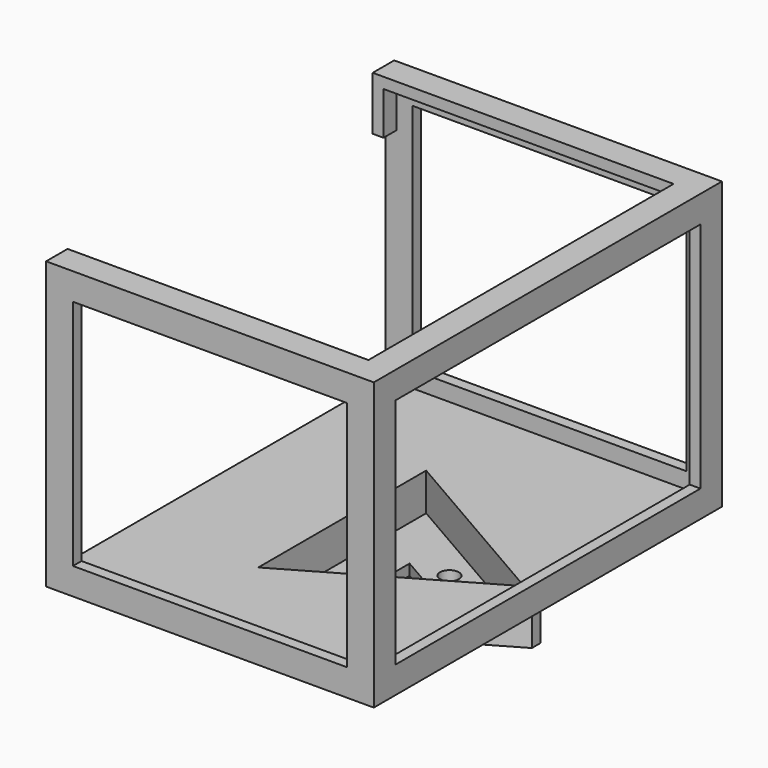
from build123d import *

# Parameters (mm, degrees)
SKETCH_R        = 1.75
PAD_DEPTH       = 2
PAD001_DEPTH    = 5
SKETCH002_W     = 61
SKETCH002_H     = 81
PAD002_DEPTH    = 2
PAD003_DEPTH    = 49.3
PAD004_DEPTH    = 2
SKETCH005_W     = 5
SKETCH005_H     = 10
PAD005_DEPTH    = 2
SKETCH006_W     = 51
SKETCH006_H     = 43.3
POCKET_DEPTH    = 81
SKETCH007_W     = 71
SKETCH007_H     = 43.3
POCKET001_DEPTH = 2


with BuildPart() as part:
    # Sketch → Pad (new body)
    with BuildSketch(Plane.XY):
        Polygon((-13.279056, 21), (-13.279056, -21), (-11.547005, -22), (24.826062, -1), (24.826062, 1), (-11.547005, 22), align=None)
        with Locations((-7.279056, 0)):
            Circle(SKETCH_R, mode=Mode.SUBTRACT)
        with Locations((3.639528, 6.303848)):
            Circle(SKETCH_R, mode=Mode.SUBTRACT)
        with Locations((3.639528, -6.303848)):
            Circle(SKETCH_R, mode=Mode.SUBTRACT)
        Polygon((6.558112, 0), (-3.279056, 5.679492), (-3.279056, -5.679492), align=None, mode=Mode.SUBTRACT)
    extrude(amount=PAD_DEPTH)

    # Sketch001 (on Face14 of Pad) → Pad001 (join)
    with BuildSketch(Plane.XY.offset(2)):
        Polygon((-13.279056, 21), (-11.547005, 22), (24.826062, 1), (24.826062, -1), (-11.547005, -22), (-13.279056, -21), align=None)
        Polygon((22.558112, 0), (-11.279056, 19.535898), (-11.279056, -19.535898), align=None, mode=Mode.SUBTRACT)
    extrude(amount=PAD001_DEPTH)

    # Sketch002 (on Face17 of Pad001) → Pad002 (join)
    with BuildSketch(Plane.XY.offset(7)):
        with Locations((-3.5, 0)):
            Rectangle(SKETCH002_W, SKETCH002_H)
        Polygon((-11.279056, 19.535898), (22.558112, 0), (-11.279056, -19.535898), align=None, mode=Mode.SUBTRACT)
    extrude(amount=PAD002_DEPTH)

    # Sketch003 (on Face29 of Pad002) → Pad003 (join)
    with BuildSketch(Plane.XY.offset(9)):
        Polygon((-34, 40.5), (27, 40.5), (27, -40.5), (-34, -40.5), (-34, -38.5), (25, -38.5), (25, 38.5), (-34, 38.5), align=None)
    extrude(amount=PAD003_DEPTH)

    # Sketch004 (on Face38 of Pad003) → Pad004 (join)
    with BuildSketch(Plane.XY.offset(58.3)):
        Polygon((-34, 40.5), (27, 40.5), (27, -40.5), (-34, -40.5), (-34, -35.5), (22, -35.5), (22, 35.5), (-34, 35.5), align=None)
    extrude(amount=PAD004_DEPTH)

    # Sketch005 (on Face30 of Pad004) → Pad005 (join)
    with BuildSketch(Plane(origin=(-34, 0, 0), x_dir=(0, -1, 0), z_dir=(-1, 0, 0))):
        with Locations((-38, 55.3)):
            Rectangle(SKETCH005_W, SKETCH005_H)
        with Locations((38, 55.3)):
            Rectangle(SKETCH005_W, SKETCH005_H)
    extrude(amount=-PAD005_DEPTH)

    # Sketch006 → Pocket (cut)
    with BuildSketch(Plane.XZ.offset(40.5)):
        with Locations((-3.5, 33.65)):
            Rectangle(SKETCH006_W, SKETCH006_H)
    extrude(amount=-POCKET_DEPTH, mode=Mode.SUBTRACT)

    # Sketch007 → Pocket001 (cut)
    with BuildSketch(Plane.YZ.offset(27)):
        with Locations((0, 33.65)):
            Rectangle(SKETCH007_W, SKETCH007_H)
    extrude(amount=-POCKET001_DEPTH, mode=Mode.SUBTRACT)


solid = part.part
